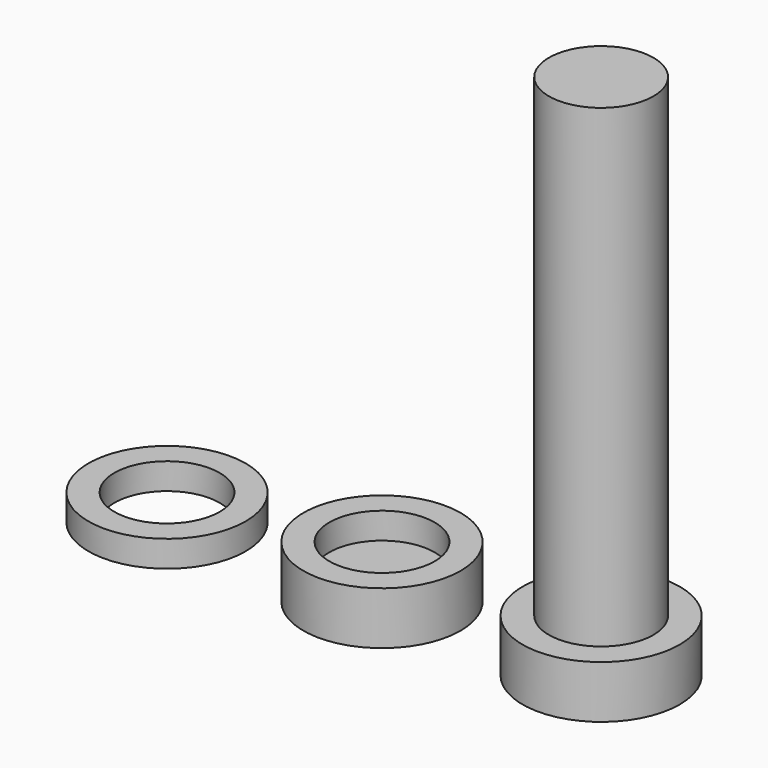
from build123d import *

# Parameters (mm, degrees)
F0_R      = 3.1496
F1_DEPTH  = 31.75
F2_R      = 4.7371
F3_DEPTH  = 3.175
F5_R      = 4.7371
F6_DEPTH  = 3.175
F7_R      = 3.175
F8_DEPTH  = 3.175
F10_R     = 4.7371
F11_DEPTH = 3.175
F12_R     = 3.175
F13_DEPTH = 1.5875
F17_DEPTH = 1.5875
F18_DEPTH = 1.5875
F19_R     = 3.175
F20_DEPTH = 1.5875
F21_DEPTH = 3.175


with BuildPart() as f1:
    # F0 (on Top) → F1 (new body)
    with BuildSketch(Plane.XY):
        Circle(F0_R)
    extrude(amount=F1_DEPTH)

    # F2 (on Top) → F3 (join)
    with BuildSketch(Plane.XY):
        Circle(F2_R)
    extrude(amount=-F3_DEPTH)


with BuildPart() as f1_1:
    # F4: moved
    add(f1.part.moved(Location((20.828, 0, 0))))


with BuildPart() as f6:
    # F5 (on Top) → F6 (new body)
    with BuildSketch(Plane.XY):
        Circle(F5_R)
    extrude(amount=F6_DEPTH)

    # F7 (on Top) → F8 (cut)
    with BuildSketch(Plane.XY):
        Circle(F7_R)
    extrude(amount=F8_DEPTH, mode=Mode.SUBTRACT)


with BuildPart() as f6_1:
    # F9: moved
    add(f6.part.moved(Location((0, 21.336, 0))))


with BuildPart() as f11:
    # F10 (on Top) → F11 (new body)
    with BuildSketch(Plane.XY):
        Circle(F10_R)
    extrude(amount=F11_DEPTH)

    # F12 (on Top) → F13 (cut)
    with BuildSketch(Plane.XY):
        Circle(F12_R)
    extrude(amount=F13_DEPTH, mode=Mode.SUBTRACT)

    # F17 (add): a face of the model
    f17_faces = [f11.faces().sort_by_distance(p)[0] for p in [
        (0, 0, 1.5875),
    ]]
    extrude(f17_faces, amount=F17_DEPTH)

    # F19 (on face) → F20 (cut)
    with BuildSketch(Plane.XY.offset(3.175)):
        Circle(F19_R)
    extrude(amount=-F20_DEPTH, mode=Mode.SUBTRACT)


with BuildPart() as f6_2:
    # F14: moved
    add(f6_1.part.moved(Location((-12.954, -21.336, 0))))

    # F18 (cut): a face of the model
    f18_faces = [f6_2.faces().sort_by_distance(p)[0] for p in [
        (-17.5571145787, 0, 3.175),
    ]]
    extrude(f18_faces, amount=-F18_DEPTH, mode=Mode.SUBTRACT)


with BuildPart() as f1_2:
    # F15: moved
    add(f1_1.part.moved(Location((-7.62, 0, 0))))


with BuildPart() as f1_3:
    # F16: moved
    add(f1_2.part.moved(Location((0, 0, 3.556))))

    # F21 (cut): a face of the model
    f21_faces = [f1_3.faces().sort_by_distance(p)[0] for p in [
        (13.208, 0, 35.306),
    ]]
    extrude(f21_faces, amount=-F21_DEPTH, mode=Mode.SUBTRACT)


solid = Compound([f11.part, f6_2.part, f1_3.part])
